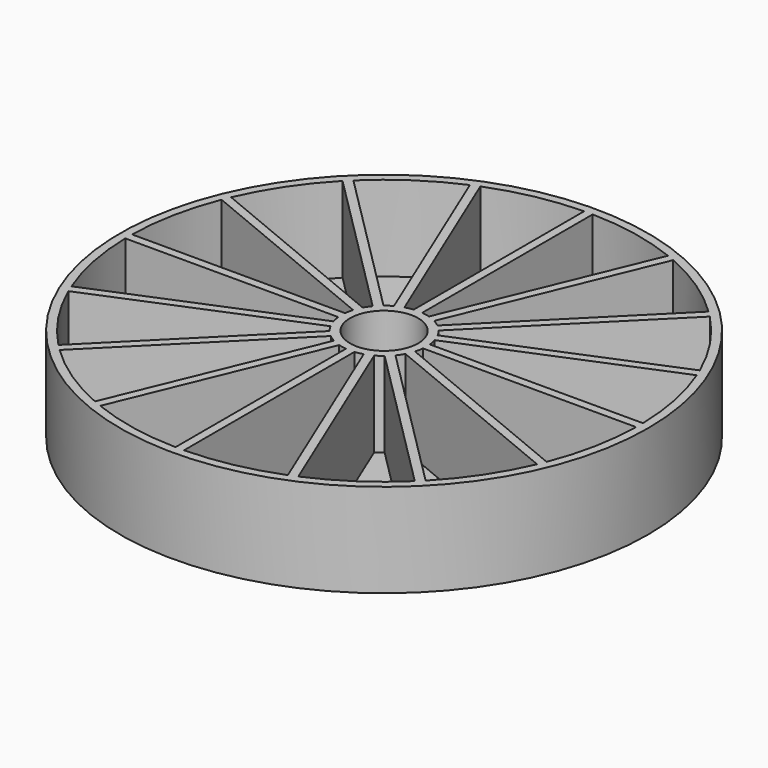
from build123d import *

# Parameters (mm, degrees)
F0_R     = 157.48
F0_R_2   = 20.32
F1_DEPTH = 50.8
F2_R     = 157.48
F3_DEPTH = 5.08


with BuildPart() as f1:
    # F0 (on Top) → F1 (new body)
    with BuildSketch(Plane.XY):
        Circle(F0_R)
        with BuildLine():
            ThreePointArc((152.3788318632, 2.54), (152.3947078739, 1.2700441026), (152.4, 0))
            ThreePointArc((152.4, 0), (152.3947078739, -1.2700441026), (152.3788318632, -2.54))
            ThreePointArc((152.3788318632, -2.54), (149.4716767335, -29.7317650753), (141.7516998646, -55.9662003846))
            ThreePointArc((141.7516998646, -55.9662003846), (140.7992407547, -58.3209550924), (139.8076680282, -60.6595084097))
            ThreePointArc((139.8076680282, -60.6595084097), (126.7159689149, -84.6689035121), (109.544156544, -105.9520540955))
            ThreePointArc((109.544156544, -105.9520540955), (107.7630734528, -107.7630734528), (105.9520540956, -109.544156544))
            ThreePointArc((105.9520540956, -109.544156544), (84.6689035122, -126.7159689149), (60.6595084097, -139.8076680282))
            ThreePointArc((60.6595084097, -139.8076680282), (58.3209550924, -140.7992407547), (55.9662003846, -141.7516998646))
            ThreePointArc((55.9662003846, -141.7516998646), (29.7317650753, -149.4716767335), (2.54, -152.3788318632))
            ThreePointArc((2.54, -152.3788318632), (0, -152.4), (-2.54, -152.3788318632))
            ThreePointArc((-2.54, -152.3788318632), (-29.7317650753, -149.4716767335), (-55.9662003846, -141.7516998646))
            ThreePointArc((-55.9662003846, -141.7516998646), (-58.3209550924, -140.7992407547), (-60.6595084098, -139.8076680282))
            ThreePointArc((-60.6595084098, -139.8076680282), (-84.6689035122, -126.7159689149), (-105.9520540955, -109.544156544))
            ThreePointArc((-105.9520540955, -109.544156544), (-107.7630734528, -107.7630734528), (-109.544156544, -105.9520540955))
            ThreePointArc((-109.544156544, -105.9520540955), (-126.7159689149, -84.6689035122), (-139.8076680282, -60.6595084098))
            ThreePointArc((-139.8076680282, -60.6595084098), (-140.7992407547, -58.3209550924), (-141.7516998646, -55.9662003846))
            ThreePointArc((-141.7516998646, -55.9662003846), (-149.4716767335, -29.7317650752), (-152.3788318632, -2.54))
            ThreePointArc((-152.3788318632, -2.54), (-152.4, 0), (-152.3788318632, 2.54))
            ThreePointArc((-152.3788318632, 2.54), (-149.4716767335, 29.7317650752), (-141.7516998646, 55.9662003846))
            ThreePointArc((-141.7516998646, 55.9662003846), (-140.7992407547, 58.3209550924), (-139.8076680282, 60.6595084098))
            ThreePointArc((-139.8076680282, 60.6595084098), (-126.7159689149, 84.6689035122), (-109.544156544, 105.9520540955))
            ThreePointArc((-109.544156544, 105.9520540955), (-107.7630734529, 107.7630734528), (-105.9520540956, 109.544156544))
            ThreePointArc((-105.9520540956, 109.544156544), (-84.6689035122, 126.7159689149), (-60.6595084098, 139.8076680282))
            ThreePointArc((-60.6595084098, 139.8076680282), (-58.3209550924, 140.7992407547), (-55.9662003846, 141.7516998646))
            ThreePointArc((-55.9662003846, 141.7516998646), (-29.7317650752, 149.4716767335), (-2.54, 152.3788318632))
            ThreePointArc((-2.54, 152.3788318632), (0, 152.4), (2.54, 152.3788318632))
            ThreePointArc((2.54, 152.3788318632), (29.7317650752, 149.4716767335), (55.9662003846, 141.7516998646))
            ThreePointArc((55.9662003846, 141.7516998646), (58.3209550924, 140.7992407547), (60.6595084098, 139.8076680282))
            ThreePointArc((60.6595084098, 139.8076680282), (84.6689035122, 126.7159689149), (105.9520540956, 109.544156544))
            ThreePointArc((105.9520540956, 109.544156544), (107.7630734528, 107.7630734528), (109.544156544, 105.9520540956))
            ThreePointArc((109.544156544, 105.9520540956), (126.7159689149, 84.6689035122), (139.8076680282, 60.6595084098))
            ThreePointArc((139.8076680282, 60.6595084098), (140.7992407547, 58.3209550924), (141.7516998646, 55.9662003846))
            ThreePointArc((141.7516998646, 55.9662003846), (149.4716767335, 29.7317650753), (152.3788318632, 2.54))
        make_face(mode=Mode.SUBTRACT)
        with BuildLine():
            Line((-7.3247822603, 24.3209285357), (-55.9662003846, 141.7516998646))
            ThreePointArc((-55.9662003846, 141.7516998646), (-58.3209550924, 140.7992407547), (-60.6595084098, 139.8076680282))
            Line((-60.6595084098, 139.8076680282), (-12.0180902854, 22.3768966993))
            ThreePointArc((-12.0180902854, 22.3768966993), (-9.7201591821, 23.4665401258), (-7.3247822603, 24.3209285357))
        make_face()
        with BuildLine():
            Line((-16.0744328207, 19.6665352691), (-105.9520540956, 109.5441565439))
            ThreePointArc((-105.9520540956, 109.544156544), (-107.7630734529, 107.7630734528), (-109.544156544, 105.9520540955))
            Line((-109.544156544, 105.9520540955), (-19.6665352691, 16.0744328207))
            ThreePointArc((-19.6665352691, 16.0744328207), (-17.9605122421, 17.9605122421), (-16.0744328207, 19.6665352691))
        make_face()
        with BuildLine():
            Line((-22.3768966993, 12.0180902854), (-139.8076680282, 60.6595084098))
            ThreePointArc((-139.8076680282, 60.6595084098), (-140.7992407547, 58.3209550924), (-141.7516998646, 55.9662003846))
            Line((-141.7516998646, 55.9662003846), (-24.3209285357, 7.3247822603))
            ThreePointArc((-24.3209285357, 7.3247822603), (-23.4665401258, 9.7201591821), (-22.3768966993, 12.0180902854))
        make_face()
        with BuildLine():
            Line((-25.2726809025, 2.54), (-152.3788318632, 2.54))
            ThreePointArc((-152.3788318632, 2.54), (-152.4, 0), (-152.3788318632, -2.54))
            Line((-152.3788318632, -2.54), (-25.2726809025, -2.54))
            ThreePointArc((-25.2726809025, -2.54), (-25.4, 0), (-25.2726809025, 2.54))
        make_face()
        with BuildLine():
            ThreePointArc((-141.7516998646, -55.9662003846), (-140.7992407547, -58.3209550924), (-139.8076680282, -60.6595084098))
            Line((-139.8076680282, -60.6595084098), (-22.3768966993, -12.0180902854))
            ThreePointArc((-22.3768966993, -12.0180902854), (-23.4665401258, -9.7201591821), (-24.3209285357, -7.3247822603))
            Line((-24.3209285357, -7.3247822603), (-141.7516998646, -55.9662003846))
        make_face()
        with BuildLine():
            ThreePointArc((-109.544156544, -105.9520540955), (-107.7630734528, -107.7630734528), (-105.9520540955, -109.544156544))
            Line((-105.9520540955, -109.544156544), (-16.0744328207, -19.6665352692))
            ThreePointArc((-16.0744328207, -19.6665352692), (-17.9605122421, -17.9605122421), (-19.6665352691, -16.0744328207))
            Line((-19.6665352691, -16.0744328207), (-109.544156544, -105.9520540955))
        make_face()
        with BuildLine():
            ThreePointArc((-60.6595084098, -139.8076680282), (-58.3209550924, -140.7992407547), (-55.9662003846, -141.7516998646))
            Line((-55.9662003846, -141.7516998646), (-7.3247822603, -24.3209285357))
            ThreePointArc((-7.3247822603, -24.3209285357), (-9.7201591821, -23.4665401258), (-12.0180902854, -22.3768966993))
            Line((-12.0180902854, -22.3768966993), (-60.6595084098, -139.8076680282))
        make_face()
        with BuildLine():
            ThreePointArc((-2.54, -152.3788318632), (0, -152.4), (2.54, -152.3788318632))
            Line((2.54, -152.3788318632), (2.54, -25.2726809025))
            ThreePointArc((2.54, -25.2726809025), (0, -25.4), (-2.54, -25.2726809025))
            Line((-2.54, -25.2726809025), (-2.54, -152.3788318632))
        make_face()
        with BuildLine():
            ThreePointArc((55.9662003846, -141.7516998646), (58.3209550924, -140.7992407547), (60.6595084097, -139.8076680282))
            Line((60.6595084097, -139.8076680282), (12.0180902854, -22.3768966993))
            ThreePointArc((12.0180902854, -22.3768966993), (9.7201591821, -23.4665401258), (7.3247822603, -24.3209285357))
            Line((7.3247822603, -24.3209285357), (55.9662003846, -141.7516998646))
        make_face()
        with BuildLine():
            ThreePointArc((105.9520540956, -109.544156544), (107.7630734528, -107.7630734528), (109.544156544, -105.9520540955))
            Line((109.544156544, -105.9520540955), (19.6665352691, -16.0744328207))
            ThreePointArc((19.6665352691, -16.0744328207), (17.9605122421, -17.9605122421), (16.0744328207, -19.6665352691))
            Line((16.0744328207, -19.6665352691), (105.9520540956, -109.544156544))
        make_face()
        with BuildLine():
            ThreePointArc((139.8076680282, -60.6595084097), (140.7992407547, -58.3209550924), (141.7516998646, -55.9662003846))
            Line((141.7516998646, -55.9662003846), (24.3209285357, -7.3247822603))
            ThreePointArc((24.3209285357, -7.3247822603), (23.4665401258, -9.7201591821), (22.3768966993, -12.0180902854))
            Line((22.3768966993, -12.0180902854), (139.8076680282, -60.6595084097))
        make_face()
        with BuildLine():
            ThreePointArc((152.3788318632, -2.54), (152.3947078739, -1.2700441026), (152.4, 0))
            ThreePointArc((152.4, 0), (152.3947078739, 1.2700441026), (152.3788318632, 2.54))
            Line((152.3788318632, 2.54), (25.2726809025, 2.54))
            ThreePointArc((25.2726809025, 2.54), (25.368150257, 1.2715944865), (25.4, 0))
            ThreePointArc((25.4, 0), (25.368150257, -1.2715944865), (25.2726809025, -2.54))
            Line((25.2726809025, -2.54), (152.3788318632, -2.54))
        make_face()
        with BuildLine():
            Line((24.3209285357, 7.3247822603), (141.7516998646, 55.9662003846))
            ThreePointArc((141.7516998646, 55.9662003846), (140.7992407547, 58.3209550924), (139.8076680282, 60.6595084098))
            Line((139.8076680282, 60.6595084098), (22.3768966993, 12.0180902854))
            ThreePointArc((22.3768966993, 12.0180902854), (23.4665401258, 9.7201591821), (24.3209285357, 7.3247822603))
        make_face()
        with BuildLine():
            Line((19.6665352691, 16.0744328207), (109.544156544, 105.9520540956))
            ThreePointArc((109.544156544, 105.9520540956), (107.7630734528, 107.7630734528), (105.9520540956, 109.544156544))
            Line((105.9520540956, 109.544156544), (16.0744328207, 19.6665352691))
            ThreePointArc((16.0744328207, 19.6665352691), (17.9605122421, 17.9605122421), (19.6665352691, 16.0744328207))
        make_face()
        with BuildLine():
            Line((12.0180902854, 22.3768966993), (60.6595084098, 139.8076680282))
            ThreePointArc((60.6595084098, 139.8076680282), (58.3209550924, 140.7992407547), (55.9662003846, 141.7516998646))
            Line((55.9662003846, 141.7516998646), (7.3247822603, 24.3209285357))
            ThreePointArc((7.3247822603, 24.3209285357), (9.7201591821, 23.4665401258), (12.0180902854, 22.3768966993))
        make_face()
        with BuildLine():
            Line((2.54, 25.2726809025), (2.54, 152.3788318632))
            ThreePointArc((2.54, 152.3788318632), (0, 152.4), (-2.54, 152.3788318632))
            Line((-2.54, 152.3788318632), (-2.54, 25.2726809025))
            ThreePointArc((-2.54, 25.2726809025), (0, 25.4), (2.54, 25.2726809025))
        make_face()
        with BuildLine():
            ThreePointArc((25.4, 0), (25.368150257, 1.2715944865), (25.2726809025, 2.54))
            ThreePointArc((25.2726809025, 2.54), (24.9119461222, 4.9552941792), (24.3209285357, 7.3247822603))
            ThreePointArc((24.3209285357, 7.3247822603), (23.4665401258, 9.7201591821), (22.3768966993, 12.0180902854))
            ThreePointArc((22.3768966993, 12.0180902854), (21.1193281525, 14.1114839187), (19.6665352691, 16.0744328207))
            ThreePointArc((19.6665352691, 16.0744328207), (17.9605122421, 17.9605122421), (16.0744328207, 19.6665352691))
            ThreePointArc((16.0744328207, 19.6665352691), (14.1114839187, 21.1193281525), (12.0180902854, 22.3768966993))
            ThreePointArc((12.0180902854, 22.3768966993), (9.7201591821, 23.4665401258), (7.3247822603, 24.3209285357))
            ThreePointArc((7.3247822603, 24.3209285357), (4.9552941792, 24.9119461222), (2.54, 25.2726809025))
            ThreePointArc((2.54, 25.2726809025), (0, 25.4), (-2.54, 25.2726809025))
            ThreePointArc((-2.54, 25.2726809025), (-4.9552941792, 24.9119461222), (-7.3247822603, 24.3209285357))
            ThreePointArc((-7.3247822603, 24.3209285357), (-9.7201591821, 23.4665401258), (-12.0180902854, 22.3768966993))
            ThreePointArc((-12.0180902854, 22.3768966993), (-14.1114839187, 21.1193281525), (-16.0744328207, 19.6665352691))
            ThreePointArc((-16.0744328207, 19.6665352691), (-17.9605122421, 17.9605122421), (-19.6665352691, 16.0744328207))
            ThreePointArc((-19.6665352691, 16.0744328207), (-21.1193281525, 14.1114839187), (-22.3768966993, 12.0180902854))
            ThreePointArc((-22.3768966993, 12.0180902854), (-23.4665401258, 9.7201591821), (-24.3209285357, 7.3247822603))
            ThreePointArc((-24.3209285357, 7.3247822603), (-24.9119461222, 4.9552941792), (-25.2726809025, 2.54))
            ThreePointArc((-25.2726809025, 2.54), (-25.4, 0), (-25.2726809025, -2.54))
            ThreePointArc((-25.2726809025, -2.54), (-24.9119461222, -4.9552941792), (-24.3209285357, -7.3247822603))
            ThreePointArc((-24.3209285357, -7.3247822603), (-23.4665401258, -9.7201591821), (-22.3768966993, -12.0180902854))
            ThreePointArc((-22.3768966993, -12.0180902854), (-21.1193281525, -14.1114839187), (-19.6665352691, -16.0744328207))
            ThreePointArc((-19.6665352691, -16.0744328207), (-17.9605122421, -17.9605122421), (-16.0744328207, -19.6665352692))
            ThreePointArc((-16.0744328207, -19.6665352692), (-14.1114839187, -21.1193281525), (-12.0180902854, -22.3768966993))
            ThreePointArc((-12.0180902854, -22.3768966993), (-9.7201591821, -23.4665401258), (-7.3247822603, -24.3209285357))
            ThreePointArc((-7.3247822603, -24.3209285357), (-4.9552941792, -24.9119461222), (-2.54, -25.2726809025))
            ThreePointArc((-2.54, -25.2726809025), (0, -25.4), (2.54, -25.2726809025))
            ThreePointArc((2.54, -25.2726809025), (4.9552941792, -24.9119461222), (7.3247822603, -24.3209285357))
            ThreePointArc((7.3247822603, -24.3209285357), (9.7201591821, -23.4665401258), (12.0180902854, -22.3768966993))
            ThreePointArc((12.0180902854, -22.3768966993), (14.1114839187, -21.1193281525), (16.0744328207, -19.6665352691))
            ThreePointArc((16.0744328207, -19.6665352691), (17.9605122421, -17.9605122421), (19.6665352691, -16.0744328207))
            ThreePointArc((19.6665352691, -16.0744328207), (21.1193281525, -14.1114839187), (22.3768966993, -12.0180902854))
            ThreePointArc((22.3768966993, -12.0180902854), (23.4665401258, -9.7201591821), (24.3209285357, -7.3247822603))
            ThreePointArc((24.3209285357, -7.3247822603), (24.9119461222, -4.9552941792), (25.2726809025, -2.54))
            ThreePointArc((25.2726809025, -2.54), (25.368150257, -1.2715944865), (25.4, 0))
        make_face()
        Circle(F0_R_2, mode=Mode.SUBTRACT)
    extrude(amount=F1_DEPTH)

    # F2 (on face) → F3 (join)
    with BuildSketch(Plane(origin=(0, 0, 0), x_dir=(1, 0, 0), z_dir=(0, 0, -1))):
        Circle(F2_R)
    extrude(amount=F3_DEPTH)


solid = f1.part
